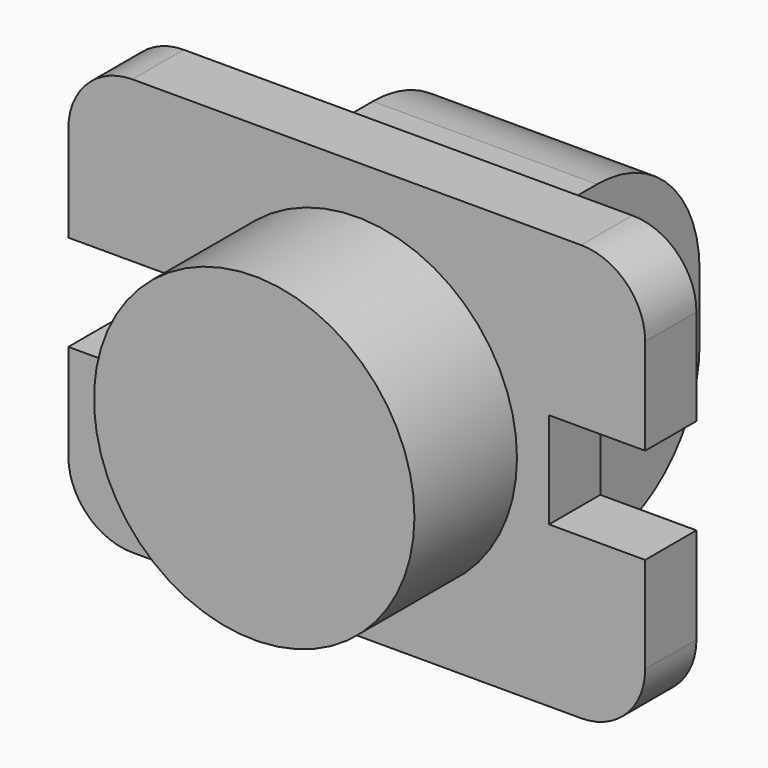
from build123d import *

# Parameters (mm, degrees)
F0_R      = 2.5
F1_DEPTH  = 2
F2_W      = 9
F2_H      = 6.5
F3_DEPTH  = 1
F4_W      = 3.5
F4_H      = 5
F5_DEPTH  = 3.5
F6_R      = 0.5
F7_DEPTH  = 25
F8_R      = 2
F9_W      = 1
F9_H      = 1.5
F10_DEPTH = 1
F11_W     = 1
F11_H     = 1.5
F12_DEPTH = 1
F13_R     = 1
F15_W     = 0.5
F15_H     = 1.5
F14_W     = 0.5
F14_H     = 1.5
F16_DEPTH = 25


with BuildPart() as f1:
    # F0 (on Front) → F1 (new body)
    with BuildSketch(Plane.XZ):
        Circle(F0_R)
    extrude(amount=F1_DEPTH)

    # F2 (on Front) → F3 (join)
    with BuildSketch(Plane.XZ):
        Rectangle(F2_W, F2_H)
    extrude(amount=-F3_DEPTH)

    # F4 (on face) → F5 (join)
    with BuildSketch(Plane(origin=(0, 1, 0), x_dir=(-1, 0, 0), z_dir=(0, 1, 0))):
        Rectangle(F4_W, F4_H)
    extrude(amount=F5_DEPTH)

    # F6 (on face) → F7 (cut)
    with BuildSketch(Plane(origin=(-1.75, 0, 0), x_dir=(0, -1, 0), z_dir=(-1, 0, 0))):
        with Locations((-3.5, 0)):
            Circle(F6_R)
    extrude(amount=-F7_DEPTH, mode=Mode.SUBTRACT)

    # F8
    f8_edges = [f1.edges().sort_by_distance(p)[0] for p in [
        (0, 4.5, -2.5),
        (0, 4.5, 2.5),
    ]]
    fillet(f8_edges, radius=F8_R)

    # F9 (on face) → F10 (cut)
    with BuildSketch(Plane(origin=(-4.5, 0, 0), x_dir=(0, -1, 0), z_dir=(-1, 0, 0))):
        with Locations((-0.5, 0)):
            Rectangle(F9_W, F9_H)
    extrude(amount=-F10_DEPTH, mode=Mode.SUBTRACT)

    # F11 (on face) → F12 (cut)
    with BuildSketch(Plane.YZ.offset(4.5)):
        with Locations((0.5, 0)):
            Rectangle(F11_W, F11_H)
    extrude(amount=-F12_DEPTH, mode=Mode.SUBTRACT)

    # F13
    f13_edges = [f1.edges().sort_by_distance(p)[0] for p in [
        (4.5, 0.5, 3.25),
        (4.5, 0.5, -3.25),
        (-4.5, 0.5, -3.25),
        (-4.5, 0.5, 3.25),
    ]]
    fillet(f13_edges, radius=F13_R)

    # F15 (on face) + F14 (on face) → F16 (cut)
    with BuildSketch(Plane(origin=(0, 1, 0), x_dir=(-1, 0, 0), z_dir=(0, 1, 0))):
        with Locations((3.25, 0)):
            Rectangle(F15_W, F15_H)
    with BuildSketch(Plane(origin=(0, 1, 0), x_dir=(-1, 0, 0), z_dir=(0, 1, 0))):
        with Locations((-3.25, 0)):
            Rectangle(F14_W, F14_H)
    extrude(amount=-F16_DEPTH, mode=Mode.SUBTRACT)


solid = f1.part
